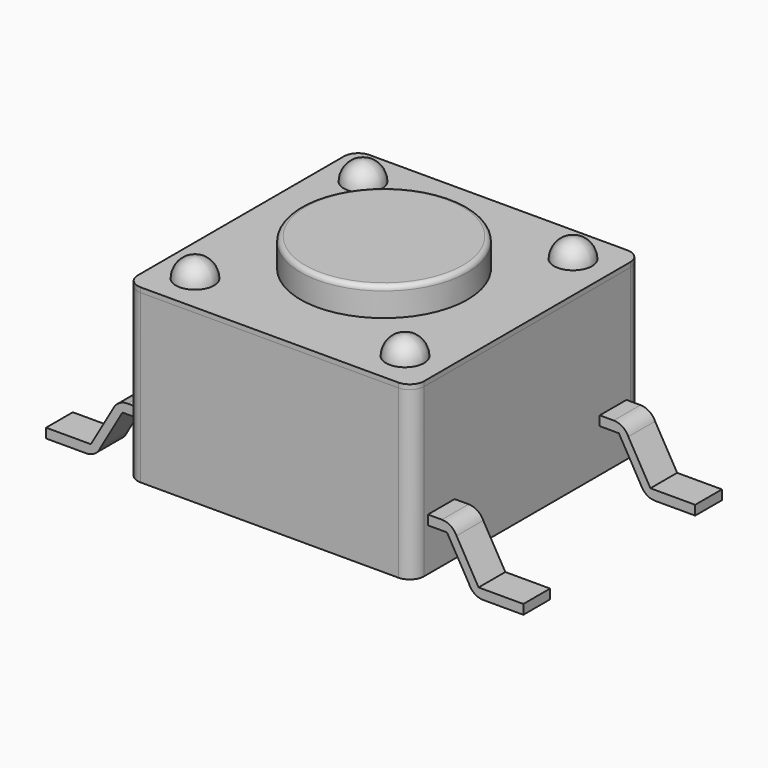
from build123d import *

# Parameters (mm, degrees)
BOX_W          = 6
BOX_H          = 6
BOX_DEPTH      = 3.5
FILLET_R       = 0.3
BOX001_W       = 6
BOX001_H       = 6
BOX001_DEPTH   = 0.1
FILLET001_R    = 0.3
CYLINDER_R     = 1.75
CYLINDER_DEPTH = 0.6
FILLET002_R    = 0.1
PAD_DEPTH      = 0.7
PAD001_DEPTH   = 0.7
PAD002_DEPTH   = 0.7
PAD003_DEPTH   = 0.7


with BuildPart() as fillet_body:
    # Box → Box (new body)
    with BuildSketch(Plane(origin=(-3, -3, 0), x_dir=(1, 0, 0), z_dir=(0, 0, 1))):
        with Locations((3, 3)):
            Rectangle(BOX_W, BOX_H)
    extrude(amount=BOX_DEPTH)

    # Fillet
    fillet_edges = [fillet_body.edges().sort_by_distance(p)[0] for p in [
        (-3, -3, 1.75),
        (-3, 3, 1.75),
        (3, -3, 1.75),
        (3, 3, 1.75),
    ]]
    fillet(fillet_edges, radius=FILLET_R)


with BuildPart() as fillet001:
    # Box001 → Box001 (new body)
    with BuildSketch(Plane(origin=(-3, -3, 3.5), x_dir=(1, 0, 0), z_dir=(0, 0, 1))):
        with Locations((3, 3)):
            Rectangle(BOX001_W, BOX001_H)
    extrude(amount=BOX001_DEPTH)

    # Fillet001
    fillet001_edges = [fillet001.edges().sort_by_distance(p)[0] for p in [
        (-3, -3, 3.55),
        (-3, 3, 3.55),
        (3, -3, 3.55),
        (3, 3, 3.55),
    ]]
    fillet(fillet001_edges, radius=FILLET001_R)


with BuildPart() as fillet002:
    # Cylinder → Cylinder (new body)
    with BuildSketch(Plane.XY.offset(3.6)):
        Circle(CYLINDER_R)
    extrude(amount=CYLINDER_DEPTH)

    # Fillet002
    fillet002_edges = [fillet002.edges().sort_by_distance(p)[0] for p in [
        (-1.75, 0, 4.2),
    ]]
    fillet(fillet002_edges, radius=FILLET002_R)


with BuildPart() as pad:
    # Sketch → Pad (new body)
    with BuildSketch(Plane(origin=(-3, 2.6, -0.1), x_dir=(1, 0, 0), z_dir=(0, -1, 0))):
        with BuildLine():
            Line((0, 1.2), (-0.293054, 1.2))
            ThreePointArc((-0.293054, 1.2), (-0.476057, 1.14532), (-0.6, 1))
            Line((-1.06188, 0.2), (-0.6, 1))
            Line((-2, 0.2), (-1.06188, 0.2))
            Line((-2, 0), (-2, 0.2))
            Line((-1.15746, 0), (-2, 0))
            ThreePointArc((-1.15746, 0), (-0.979446, 0.055332), (-0.86188, 0.2))
            Line((-0.4, 1), (-0.86188, 0.2))
            Line((0, 1), (-0.4, 1))
            Line((0, 1), (0, 1.2))
        make_face()
    extrude(amount=PAD_DEPTH)


with BuildPart() as pad001:
    # Sketch001 → Pad001 (new body)
    with BuildSketch(Plane(origin=(-3, -1.9, -0.1), x_dir=(1, 0, 0), z_dir=(0, -1, 0))):
        with BuildLine():
            Line((0, 1.2), (-0.293054, 1.2))
            ThreePointArc((-0.293054, 1.2), (-0.476057, 1.14532), (-0.6, 1))
            Line((-1.06188, 0.2), (-0.6, 1))
            Line((-2, 0.2), (-1.06188, 0.2))
            Line((-2, 0), (-2, 0.2))
            Line((-1.15746, 0), (-2, 0))
            ThreePointArc((-1.15746, 0), (-0.979446, 0.055332), (-0.86188, 0.2))
            Line((-0.4, 1), (-0.86188, 0.2))
            Line((0, 1), (-0.4, 1))
            Line((0, 1), (0, 1.2))
        make_face()
    extrude(amount=PAD001_DEPTH)


with BuildPart() as pad002:
    # Sketch002 → Pad002 (new body)
    with BuildSketch(Plane(origin=(3, -1.9, -0.1), x_dir=(1, 0, 0), z_dir=(0, -1, 0))):
        with BuildLine():
            Line((1.15746, 0), (2, 0))
            Line((2, 0), (2, 0.2))
            Line((2, 0.2), (1.06188, 0.2))
            Line((1.06188, 0.2), (0.6, 1))
            ThreePointArc((0.6, 1), (0.476057, 1.14532), (0.293054, 1.2))
            Line((0.293054, 1.2), (0, 1.2))
            Line((0, 1.2), (0, 1))
            Line((0, 1), (0.4, 1))
            Line((0.4, 1), (0.86188, 0.2))
            ThreePointArc((0.86188, 0.2), (0.979446, 0.055332), (1.15746, 0))
        make_face()
    extrude(amount=PAD002_DEPTH)


with BuildPart() as pad003:
    # Sketch003 → Pad003 (new body)
    with BuildSketch(Plane(origin=(3, 2.6, -0.1), x_dir=(1, 0, 0), z_dir=(0, -1, 0))):
        with BuildLine():
            Line((1.15746, 0), (2, 0))
            Line((2, 0), (2, 0.2))
            Line((2, 0.2), (1.06188, 0.2))
            Line((1.06188, 0.2), (0.6, 1))
            ThreePointArc((0.6, 1), (0.476057, 1.14532), (0.293054, 1.2))
            Line((0.293054, 1.2), (0, 1.2))
            Line((0, 1.2), (0, 1))
            Line((0, 1), (0.4, 1))
            Line((0.4, 1), (0.86188, 0.2))
            ThreePointArc((0.86188, 0.2), (0.979446, 0.055332), (1.15746, 0))
        make_face()
    extrude(amount=PAD003_DEPTH)


with BuildPart() as sphere:
    # Sphere → Sphere (revolve)
    with BuildSketch(Plane(origin=(-2.2, -2.2, 3.6), x_dir=(1, 0, 0), z_dir=(0, -1, 0))):
        with BuildLine():
            ThreePointArc((0.4, 0), (0.282843, 0.282843), (0, 0.4))
            Line((0, 0.4), (0, 0))
            Line((0, 0), (0.4, 0))
        make_face()
    revolve(axis=Axis((-2.2, -2.2, 3.6), (0, 0, 1)))


with BuildPart() as sphere001:
    # Sphere001 → Sphere001 (revolve)
    with BuildSketch(Plane(origin=(2.2, -2.2, 3.6), x_dir=(1, 0, 0), z_dir=(0, -1, 0))):
        with BuildLine():
            ThreePointArc((0.4, 0), (0.282843, 0.282843), (0, 0.4))
            Line((0, 0.4), (0, 0))
            Line((0, 0), (0.4, 0))
        make_face()
    revolve(axis=Axis((2.2, -2.2, 3.6), (0, 0, 1)))


with BuildPart() as sphere002:
    # Sphere002 → Sphere002 (revolve)
    with BuildSketch(Plane(origin=(2.2, 2.2, 3.6), x_dir=(1, 0, 0), z_dir=(0, -1, 0))):
        with BuildLine():
            ThreePointArc((0.4, 0), (0.282843, 0.282843), (0, 0.4))
            Line((0, 0.4), (0, 0))
            Line((0, 0), (0.4, 0))
        make_face()
    revolve(axis=Axis((2.2, 2.2, 3.6), (0, 0, 1)))


with BuildPart() as sphere003:
    # Sphere003 → Sphere003 (revolve)
    with BuildSketch(Plane(origin=(-2.2, 2.2, 3.6), x_dir=(1, 0, 0), z_dir=(0, -1, 0))):
        with BuildLine():
            ThreePointArc((0.4, 0), (0.282843, 0.282843), (0, 0.4))
            Line((0, 0.4), (0, 0))
            Line((0, 0), (0.4, 0))
        make_face()
    revolve(axis=Axis((-2.2, 2.2, 3.6), (0, 0, 1)))


solid = Compound([fillet_body.part, fillet001.part, fillet002.part, pad.part, pad001.part, pad002.part, pad003.part, sphere.part, sphere001.part, sphere002.part, sphere003.part])
